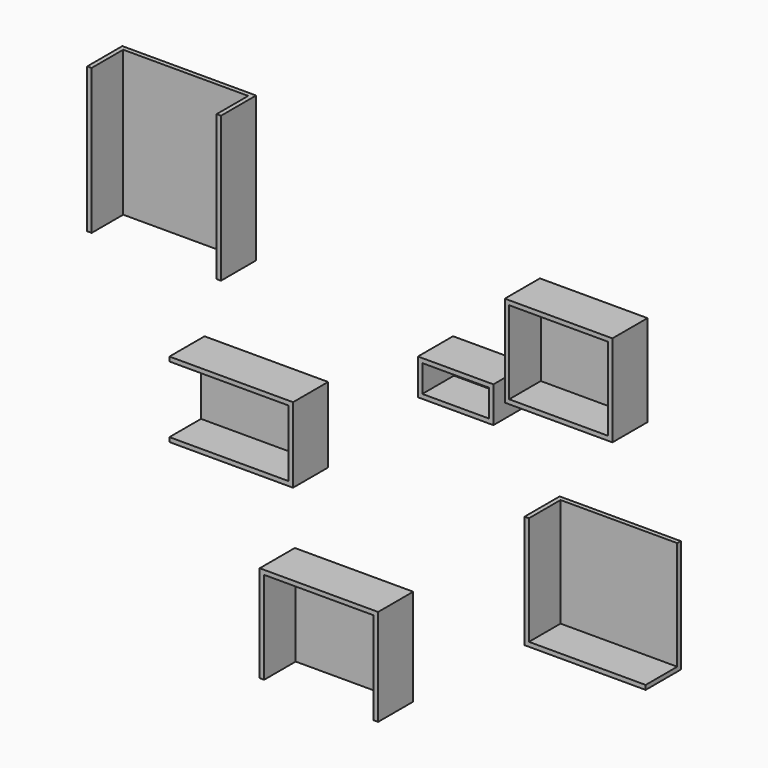
from build123d import *

# Parameters (mm, degrees)
F0_W      = 43.6879917979
F0_H      = 20.799420774
F1_DEPTH  = 25.4
F0_W_2    = 62.3146742582
F0_H_2    = 53.0174635351
F11_T     = -2.54
F11_2_T   = -2.54
F2_W      = 70.1040774584
F2_H      = 65.5285418034
F3_DEPTH  = 25.4
F4_T      = -2.54
F5_W      = 68.5530081391
F5_H      = 56.0477301478
F6_DEPTH  = 25.4
F7_T      = -2.54
F8_W      = 71.5593323112
F8_H      = 43.6012223363
F12_DEPTH = 25.4
F13_T     = -2.54
F9_W      = 77.4390846491
F9_H      = 84.0891003609
F10_DEPTH = 25.4
F14_T     = -2.54


with BuildPart() as f1:
    # F0 (on Front) → F1 (new body)
    with BuildSketch(Plane.XZ):
        with Locations((-21.843995899, 49.4633279741)):
            Rectangle(F0_W, F0_H)
    extrude(amount=F1_DEPTH)

    # F11#2
    f11_2_openings = [f1.faces().sort_by_distance(p)[0] for p in [
        (-21.843996, -25.4, 49.463328),
    ]]
    offset(amount=F11_2_T, openings=f11_2_openings)


with BuildPart() as f1b:
    # F0 (on Front) → F1, piece 2 (new body)
    with BuildSketch(Plane.XZ):
        with Locations((37.7613380551, 79.1990179569)):
            Rectangle(F0_W_2, F0_H_2)
    extrude(amount=F1_DEPTH)

    # F11
    f11_openings = [f1b.faces().sort_by_distance(p)[0] for p in [
        (37.761338, -25.4, 79.199018),
    ]]
    offset(amount=F11_T, openings=f11_openings)


with BuildPart() as f3:
    # F2 (on face) → F3 (new body)
    with BuildSketch(Plane.XZ.offset(2.54)):
        with Locations((55.145137012, -32.7642709017)):
            Rectangle(F2_W, F2_H)
    extrude(amount=F3_DEPTH)

    # F4
    f4_openings = [f3.faces().sort_by_distance(p)[0] for p in [
        (90.197176, -15.24, -32.764271),
        (55.145137, -15.24, 0),
        (55.145137, -27.94, -32.764271),
    ]]
    offset(amount=F4_T, openings=f4_openings)


with BuildPart() as f6:
    # F5 (on face) → F6 (new body)
    with BuildSketch(Plane.XZ.offset(5.08)):
        with Locations((-96.9556830823, -102.499101311)):
            Rectangle(F5_W, F5_H)
    extrude(amount=F6_DEPTH)

    # F7
    f7_openings = [f6.faces().sort_by_distance(p)[0] for p in [
        (-96.955683, -30.48, -102.499101),
        (-96.955683, -17.78, -130.522966),
    ]]
    offset(amount=F7_T, openings=f7_openings)


with BuildPart() as f12:
    # F8 (on face) → F12 (new body)
    with BuildSketch(Plane.XZ.offset(7.62)):
        with Locations((-145.697388798, -3.6815740168)):
            Rectangle(F8_W, F8_H)
    extrude(amount=F12_DEPTH)

    # F13
    f13_openings = [f12.faces().sort_by_distance(p)[0] for p in [
        (-181.477055, -20.32, -3.681574),
        (-145.697389, -33.02, -3.681574),
    ]]
    offset(amount=F13_T, openings=f13_openings)


with BuildPart() as f10:
    # F9 (on face) → F10 (new body)
    with BuildSketch(Plane.XZ.offset(10.16)):
        with Locations((-188.3165761828, 110.2131158113)):
            Rectangle(F9_W, F9_H)
    extrude(amount=F10_DEPTH)

    # F14
    f14_openings = [f10.faces().sort_by_distance(p)[0] for p in [
        (-188.316576, -35.56, 110.213116),
        (-188.316576, -22.86, 68.168566),
        (-188.316576, -22.86, 152.257666),
    ]]
    offset(amount=F14_T, openings=f14_openings)


solid = Compound([f1.part, f1b.part, f3.part, f6.part, f12.part, f10.part])
